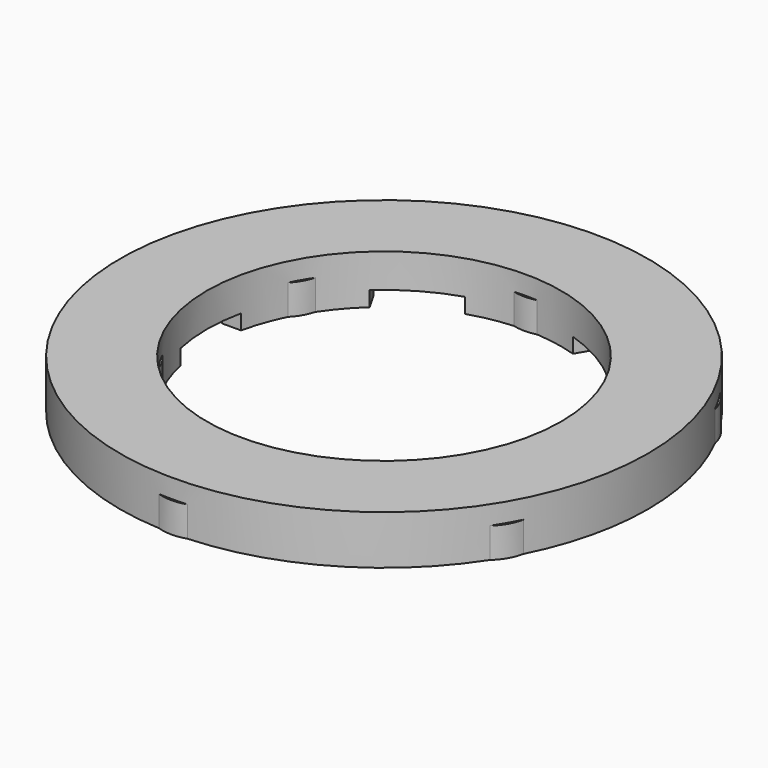
from build123d import *

# Parameters (mm, degrees)
F0_R     = 35
F1_DEPTH = 6.5
F2_R     = 23.5
F3_DEPTH = 6.5
F4_R     = 32
F4_R_2   = 26
F5_DEPTH = 4
F7_DEPTH = 2
F8_R     = 6
F9_DEPTH = 4


with BuildPart() as f1:
    # F0 (on Top) → F1 (new body)
    with BuildSketch(Plane.XY):
        Circle(F0_R)
    extrude(amount=F1_DEPTH)

    # F2 (on face) → F3 (cut, through all)
    with BuildSketch(Plane.XY.offset(6.5)):
        Circle(F2_R)
    extrude(amount=-F3_DEPTH, mode=Mode.SUBTRACT)

    # F4 (on face) → F5 (cut)
    with BuildSketch(Plane(origin=(0, 0, 0), x_dir=(1, 0, 0), z_dir=(0, 0, -1))):
        Circle(F4_R)
        Circle(F4_R_2, mode=Mode.SUBTRACT)
    extrude(amount=-F5_DEPTH, mode=Mode.SUBTRACT)

    # F6 (on Top) → F7 (cut)
    with BuildSketch(Plane.XY):
        Polygon((-26, 5), (-26, -5), (-8.6602540378, -5), (-17.3301270189, -20.0166604984), (-8.6698729811, -25.0166604984), (0, -10), (8.6698729811, -25.0166604984), (17.3301270189, -20.0166604984), (8.6602540378, -5), (26, -5), (26, 5), (8.6602540378, 5), (17.3301270189, 20.0166604984), (8.6698729811, 25.0166604984), (0, 10), (-8.6698729811, 25.0166604984), (-17.3301270189, 20.0166604984), (-8.6602540378, 5), align=None)
    extrude(amount=F7_DEPTH, mode=Mode.SUBTRACT)

    # F8 (on Top) → F9 (join)
    with BuildSketch(Plane.XY):
        with Locations((0, -29.25)):
            Circle(F8_R)
        with Locations((25.3312430607, -14.625)):
            Circle(F8_R)
        with Locations((25.3312430607, 14.625)):
            Circle(F8_R)
        with Locations((0, 29.25)):
            Circle(F8_R)
        with Locations((-25.3312430607, 14.625)):
            Circle(F8_R)
        with Locations((-25.3312430607, -14.625)):
            Circle(F8_R)
    extrude(amount=F9_DEPTH)


solid = f1.part
